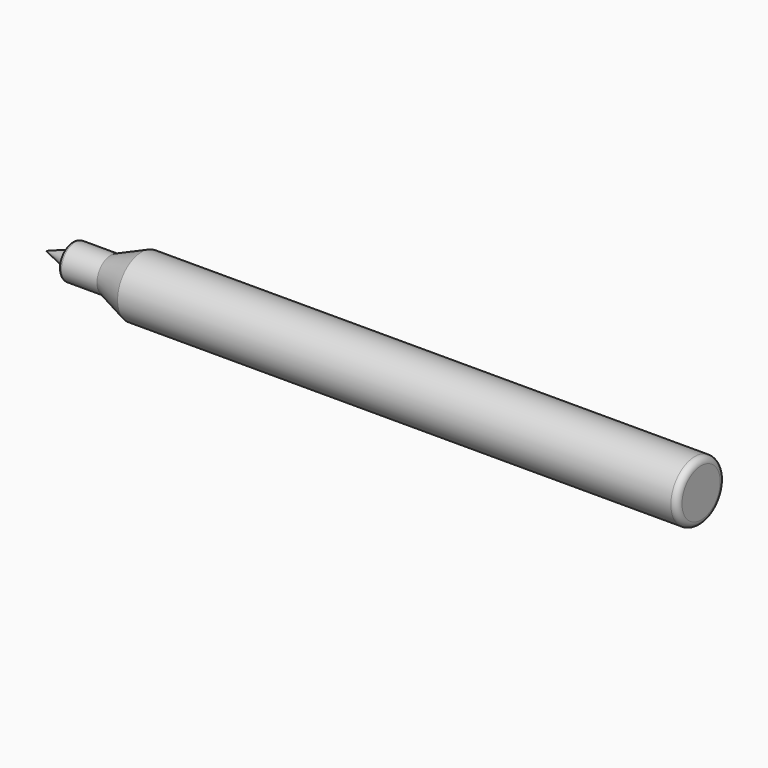
from build123d import *

# Parameters (mm, degrees)
F0_W = 72.6
F0_H = 3.9
F2_R = 0.8
F3_R = 0.4


with BuildPart() as f1:
    # F0 (on Top) → F1 (revolve)
    with BuildSketch(Plane.XY):
        Polygon((-12.7115285009, 12.0947610609), (-16.1115285009, 10.8947610609), (-12.7115285009, 10.8947610609), align=None)
        Polygon((-7.7115285009, 10.8947610609), (-7.7115285009, 13.1447610609), (-12.7115285009, 13.1447610609), (-12.7115285009, 12.0947610609), (-12.7115285009, 10.8947610609), align=None)
        Polygon((-3.7115285009, 10.8947610609), (-3.7115285009, 14.7947610609), (-7.7115285009, 13.1447610609), (-7.7115285009, 10.8947610609), align=None)
        with Locations((32.5884714991, 12.8447610609)):
            Rectangle(F0_W, F0_H)
    revolve(axis=Axis((26.3884714991, 10.8947610609, 0), (-1, 0, 0)))

    # F2
    f2_edges = [f1.edges().sort_by_distance(p)[0] for p in [
        (68.888471, 6.994761, 0),
    ]]
    fillet(f2_edges, radius=F2_R)

    # F3
    f3_edges = [f1.edges().sort_by_distance(p)[0] for p in [
        (-12.711529, 8.644761, 0),
    ]]
    fillet(f3_edges, radius=F3_R)


solid = f1.part
